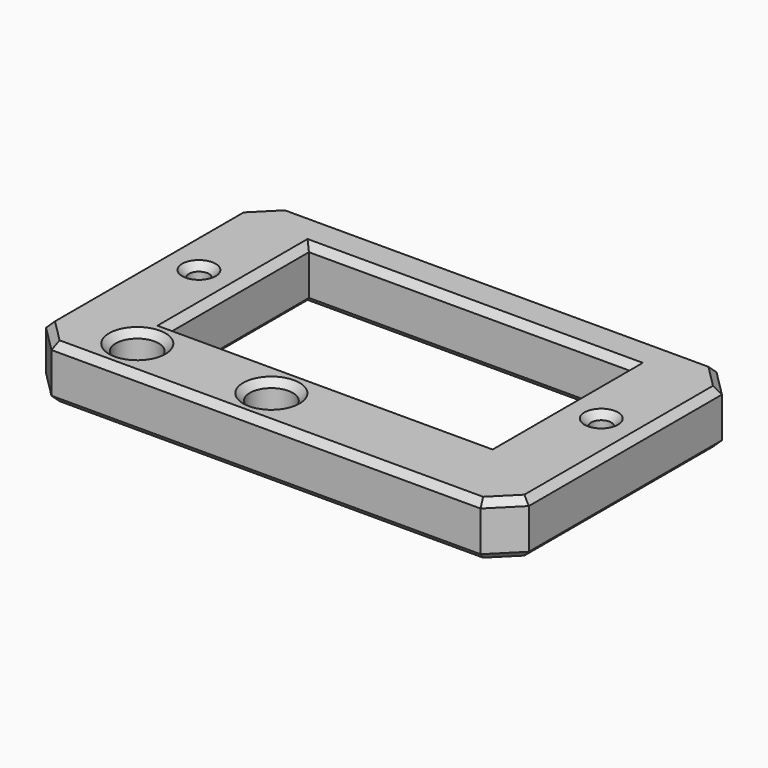
from build123d import *

# Parameters (mm, degrees)
F0_W     = 36
F0_H     = 22
F0_R     = 1.6
F0_R_2   = 0.75
F0_W_2   = 24
F0_H_2   = 13
F1_DEPTH = 4
F2_SIZE  = 2
F3_SIZE  = 0.5


with BuildPart() as f1:
    # F0 (on Top) → F1 (new body)
    with BuildSketch(Plane.XY):
        with Locations((12, 5)):
            Rectangle(F0_W, F0_H)
        with Locations((0, -3)):
            Circle(F0_R, mode=Mode.SUBTRACT)
        with Locations((10, -3)):
            Circle(F0_R, mode=Mode.SUBTRACT)
        with Locations((-3, 6.5)):
            Circle(F0_R_2, mode=Mode.SUBTRACT)
        with Locations((12, 6.5)):
            Rectangle(F0_W_2, F0_H_2, mode=Mode.SUBTRACT)
        with Locations((27, 6.5)):
            Circle(F0_R_2, mode=Mode.SUBTRACT)
    extrude(amount=F1_DEPTH)

    # F2
    f2_edges = [f1.edges().sort_by_distance(p)[0] for p in [
        (-6, -6, 2),
        (30, -6, 2),
        (30, 16, 2),
        (-6, 16, 2),
    ]]
    chamfer(f2_edges, length=F2_SIZE)

    # F3
    f3_edges = [f1.edges().sort_by_distance(p)[0] for p in [
        (-6, 5, 0),
        (-5, 15, 0),
        (-5, -5, 0),
        (12, 16, 0),
        (12, -6, 0),
        (29, 15, 0),
        (29, -5, 0),
        (30, 5, 0),
        (-1.6, -3, 0),
        (8.4, -3, 0),
        (-3.75, 6.5, 0),
        (12, 0, 0),
        (0, 6.5, 0),
        (12, 13, 0),
        (24, 6.5, 0),
        (26.25, 6.5, 0),
        (-6, 5, 4),
        (-5, 15, 4),
        (-5, -5, 4),
        (12, 16, 4),
        (12, -6, 4),
        (29, 15, 4),
        (29, -5, 4),
        (30, 5, 4),
        (-1.6, -3, 4),
        (8.4, -3, 4),
        (-3.75, 6.5, 4),
        (12, 0, 4),
        (0, 6.5, 4),
        (12, 13, 4),
        (24, 6.5, 4),
        (26.25, 6.5, 4),
    ]]
    chamfer(f3_edges, length=F3_SIZE)


solid = f1.part
